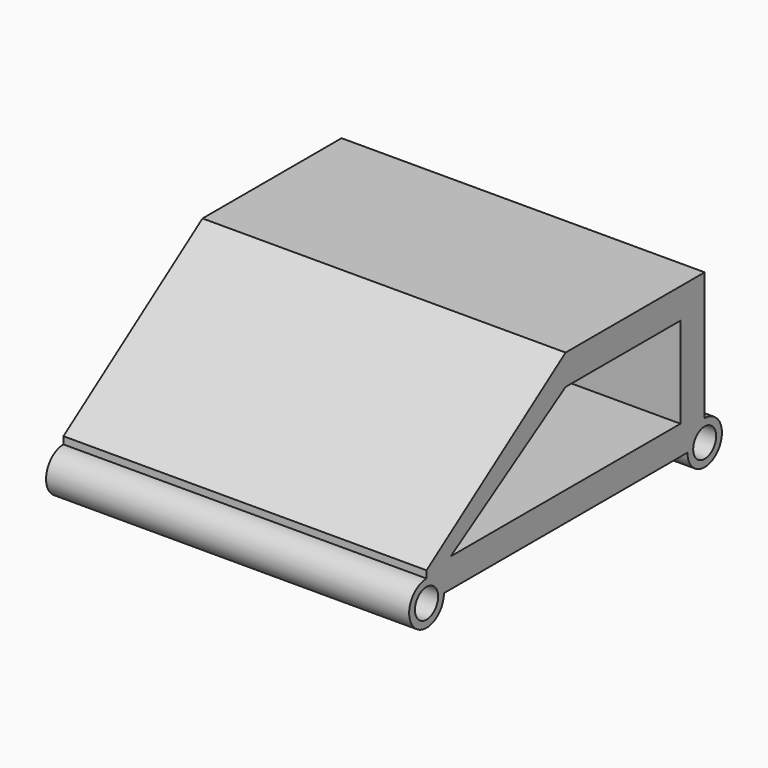
from build123d import *

# Parameters (mm, degrees)
F0_R     = 6.08019
F0_R_2   = 6.017321
F1_DEPTH = 76.2


with BuildPart() as f1:
    # F0 (on Right) → F1 (new body, symmetric)
    with BuildSketch(Plane.YZ):
        with BuildLine():
            Line((-60.801898, -6.08019), (60.801898, -6.08019))
            Line((60.801898, -6.08019), (63.904862, -6.08019))
            ThreePointArc((63.904862, -6.08019), (66.557717, 0.32437), (72.962277, 2.977226))
            Line((72.962277, 2.977226), (72.962277, 6.08019))
            Line((72.962277, 6.08019), (72.962277, 56.88019))
            Line((72.962277, 56.88019), (60.262277, 56.88019))
            Line((60.262277, 56.88019), (0, 56.88019))
            Line((0, 56.88019), (-72.962277, 6.08019))
            Line((-72.962277, 6.08019), (-72.962277, 3.040095))
            ThreePointArc((-72.962277, 3.040095), (-66.513262, 0.368825), (-63.841993, -6.08019))
            Line((-63.841993, -6.08019), (-60.801898, -6.08019))
        make_face()
        Polygon((60.262277, 44.18019), (60.262277, 6.08019), (-60.262277, 6.08019), (0, 44.18019), align=None, mode=Mode.SUBTRACT)
        with BuildLine():
            ThreePointArc((-72.962277, 3.040095), (-79.411292, -12.529205), (-63.841993, -6.08019))
            ThreePointArc((-63.841993, -6.08019), (-66.513262, 0.368825), (-72.962277, 3.040095))
        make_face()
        with Locations((-72.962277, -6.08019)):
            Circle(F0_R, mode=Mode.SUBTRACT)
        with BuildLine():
            ThreePointArc((72.962277, 2.977226), (66.557717, 0.32437), (63.904862, -6.08019))
            ThreePointArc((63.904862, -6.08019), (72.962277, -15.137605), (82.019693, -6.08019))
            ThreePointArc((82.019693, -6.08019), (79.366837, 0.32437), (72.962277, 2.977226))
        make_face()
        with Locations((72.962277, -6.08019)):
            Circle(F0_R_2, mode=Mode.SUBTRACT)
    extrude(amount=F1_DEPTH, both=True)


solid = f1.part
